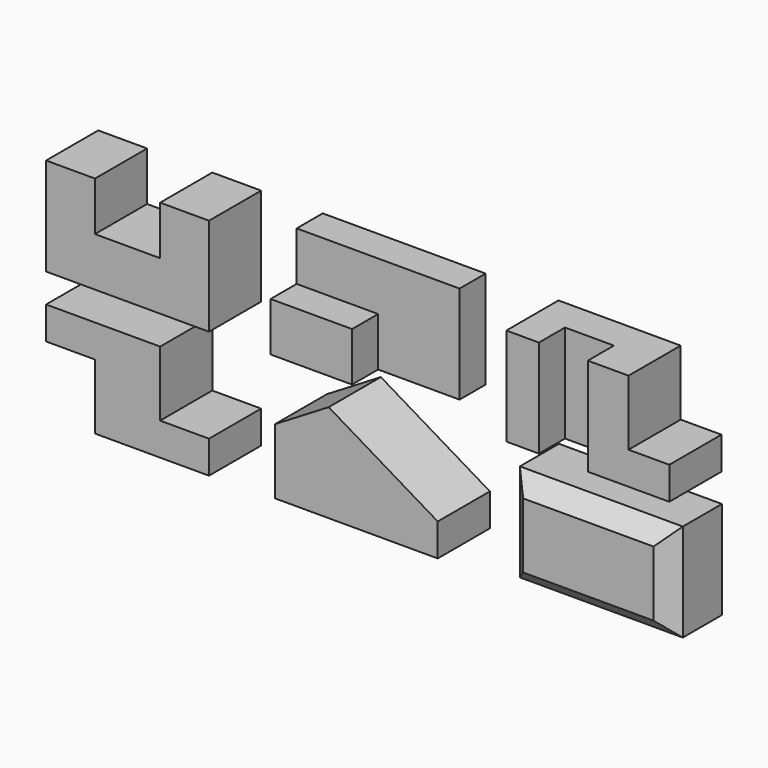
from build123d import *

# Parameters (mm, degrees)
F1_DEPTH  = 101.6
F3_DEPTH  = 152.4
F4_W      = 127
F4_H      = 76.2
F5_DEPTH  = 50.8
F6_DEPTH  = 50.8
F8_DEPTH  = 152.4
F9_W      = 63.5
F9_H      = 101.6
F10_DEPTH = 101.6
F12_DEPTH = 101.6
F14_DEPTH = 101.6
F15_W     = 254
F15_H     = 152.4
F16_DEPTH = 101.6
F17_SIZE  = 25.4


with BuildPart() as f1:
    # F0 (on Front) → F1 (new body)
    with BuildSketch(Plane.XZ):
        Polygon((0, 152.4), (0, 0), (254, 0), (254, 152.4), (177.8, 152.4), (177.8, 76.2), (76.2, 76.2), (76.2, 152.4), align=None)
    extrude(amount=-F1_DEPTH)


with BuildPart() as f3:
    # F2 (on Top) → F3 (new body)
    with BuildSketch(Plane.XY):
        Polygon((603.953785, 101.6), (349.952871, 101.6), (349.952871, 0), (476.952871, 0), (476.952871, 50.8), (603.953785, 50.8), align=None)
    extrude(amount=F3_DEPTH)

    # F4 (on face) → F5 (join)
    with BuildSketch(Plane.XZ):
        with Locations((413.452871, 114.3)):
            Rectangle(F4_W, F4_H)
    extrude(amount=-F5_DEPTH)

    # F4 (on face) → F6 (cut)
    with BuildSketch(Plane.XZ):
        with Locations((413.452871, 114.3)):
            Rectangle(F4_W, F4_H)
    extrude(amount=-F6_DEPTH, mode=Mode.SUBTRACT)


with BuildPart() as f8:
    # F7 (on Top) → F8 (new body)
    with BuildSketch(Plane.XY):
        Polygon((971.464483, 101.6), (717.464483, 101.6), (717.464483, 0), (768.264483, 0), (768.264483, 50.8), (844.464483, 50.8), (844.464483, 0), (971.464483, 0), align=None)
    extrude(amount=F8_DEPTH)

    # F9 (on face) → F10 (cut)
    with BuildSketch(Plane.XZ):
        with Locations((939.714483, 101.6)):
            Rectangle(F9_W, F9_H)
    extrude(amount=-F10_DEPTH, mode=Mode.SUBTRACT)


with BuildPart() as f12:
    # F11 (on Front) → F12 (new body)
    with BuildSketch(Plane.XZ):
        Polygon((177.8, -45.143463), (0, -45.143463), (0, -95.943463), (76.2, -95.943463), (76.2, -197.543463), (254, -197.543463), (254, -146.743463), (177.8, -146.743463), align=None)
    extrude(amount=-F12_DEPTH)


with BuildPart() as f14:
    # F13 (on Front) → F14 (new body)
    with BuildSketch(Plane.XZ):
        Polygon((356.488807, -93.595416), (356.488807, -195.195416), (610.488807, -195.195416), (610.488807, -144.395416), (440.555629, -42.795416), align=None)
    extrude(amount=-F14_DEPTH)


with BuildPart() as f16:
    # F15 (on Front) → F16 (new body)
    with BuildSketch(Plane.XZ):
        with Locations((845.228612, -120.254754)):
            Rectangle(F15_W, F15_H)
    extrude(amount=-F16_DEPTH)

    # F17
    f17_edges = [f16.edges().sort_by_distance(p)[0] for p in [
        (845.228612, 0, -196.454754),
        (972.228612, 0, -120.254754),
        (845.228612, 0, -44.054754),
        (718.228612, 0, -120.254754),
    ]]
    chamfer(f17_edges, length=F17_SIZE)


solid = Compound([f1.part, f3.part, f8.part, f12.part, f14.part, f16.part])
